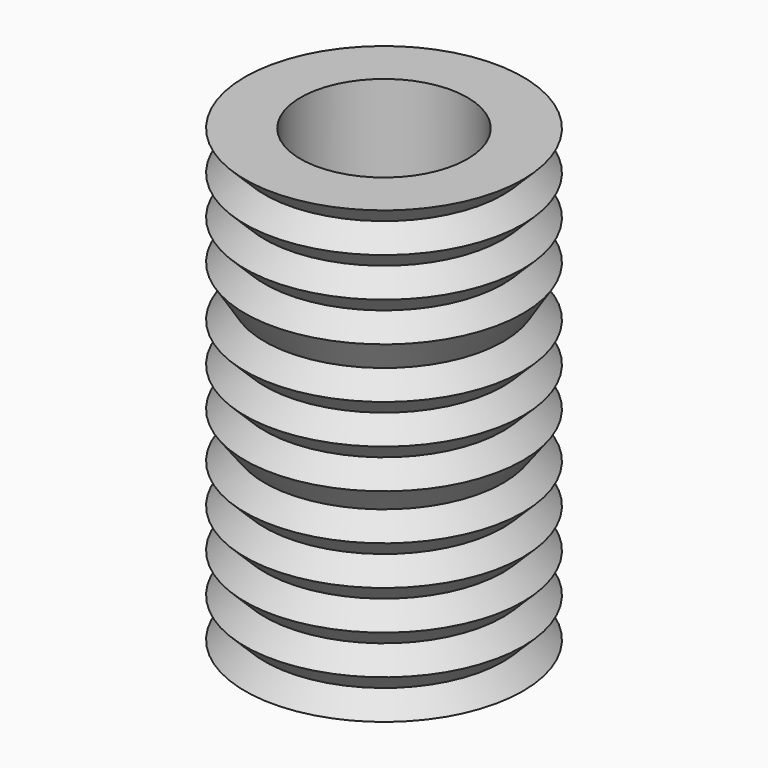
from build123d import *

# Parameters (mm, degrees)
F2_R     = 15
F3_DEPTH = 81.001


with BuildPart() as f1:
    # F0 (on Front) → F1 (revolve)
    with BuildSketch(Plane.XZ):
        Polygon((0, -16.930825), (0, 64.069175), (-25, 64.069175), (-21.464466, 60.533641), (-25, 56.998107), (-21.464466, 53.462574), (-25, 49.92704), (-21.464466, 46.391506), (-25, 42.855972), (-21.464466, 37.271757), (-25, 33.736223), (-21.464466, 30.200689), (-25, 26.665155), (-21.464466, 23.129621), (-25, 19.594087), (-21.464466, 14.88898), (-25, 11.353447), (-21.464466, 7.817913), (-25, 4.282379), (-21.464466, 0.746845), (-25, -2.788689), (-21.464466, -6.324223), (-25, -9.859757), (-21.464466, -13.395291), (-25, -16.930825), align=None)
    revolve(axis=Axis((0, 0, 23.569175), (0, 0, -1)))

    # F2 (on face) → F3 (cut, through all)
    with BuildSketch(Plane(origin=(0, 0, -16.930825), x_dir=(1, 0, 0), z_dir=(0, 0, -1))):
        Circle(F2_R)
    extrude(amount=-F3_DEPTH, mode=Mode.SUBTRACT)


solid = f1.part
